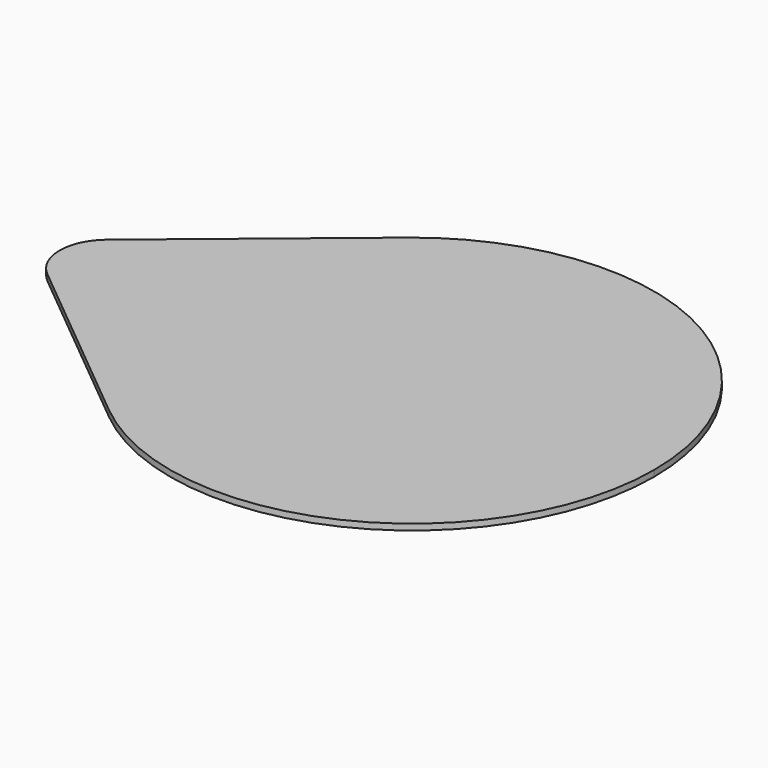
from build123d import *

# Parameters (mm, degrees)
F1_DEPTH = 22


with BuildPart() as f1:
    # F0 (on Top) → F1 (new body)
    with BuildSketch(Plane.XY):
        with BuildLine():
            Line((0, 0), (875, 0))
            ThreePointArc((875, 0), (373.101254, 791.46728), (-556.818182, 674.965564))
            Line((-556.818182, 674.965564), (-1211.363636, 134.993113))
            ThreePointArc((-1211.363636, 134.993113), (-1258.293456, 74.620251), (-1275, 0))
            Line((-1275, 0), (-1100, 0))
            Line((-1100, 0), (0, 0))
        make_face()
    extrude(amount=-F1_DEPTH)

    # F2: F1 across plane


with BuildPart() as f1_1:
    add(f1.part)
    add(f1.part.mirror(Plane.XZ))


solid = f1_1.part
